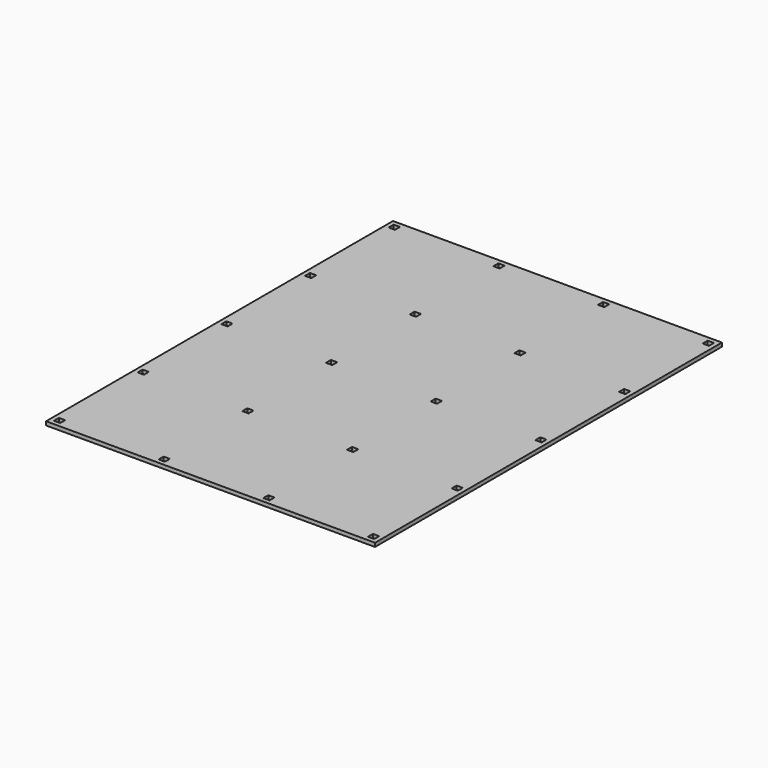
from build123d import *

# Parameters (mm, degrees)
F0_W     = 419.1
F0_H     = 552.45
F0_W_2   = 7.9375
F0_H_2   = 7.9375
F1_DEPTH = 4.7625


with BuildPart() as f1:
    # F0 (on Top) → F1 (new body)
    with BuildSketch(Plane.XY):
        with Locations((209.55, 276.225)):
            Rectangle(F0_W, F0_H)
        with Locations((9.454559, 9.666916)):
            Rectangle(F0_W_2, F0_H_2, mode=Mode.SUBTRACT)
        with Locations((142.804305, 9.666916)):
            Rectangle(F0_W_2, F0_H_2, mode=Mode.SUBTRACT)
        with Locations((9.454559, 142.945695)):
            Rectangle(F0_W_2, F0_H_2, mode=Mode.SUBTRACT)
        with Locations((9.454559, 276.224473)):
            Rectangle(F0_W_2, F0_H_2, mode=Mode.SUBTRACT)
        with Locations((142.804305, 142.945695)):
            Rectangle(F0_W_2, F0_H_2, mode=Mode.SUBTRACT)
        with Locations((142.804305, 276.224473)):
            Rectangle(F0_W_2, F0_H_2, mode=Mode.SUBTRACT)
        with Locations((276.154051, 9.666916)):
            Rectangle(F0_W_2, F0_H_2, mode=Mode.SUBTRACT)
        with Locations((409.503797, 9.666916)):
            Rectangle(F0_W_2, F0_H_2, mode=Mode.SUBTRACT)
        with Locations((276.154051, 142.945695)):
            Rectangle(F0_W_2, F0_H_2, mode=Mode.SUBTRACT)
        with Locations((276.154051, 276.224473)):
            Rectangle(F0_W_2, F0_H_2, mode=Mode.SUBTRACT)
        with Locations((409.503797, 142.945695)):
            Rectangle(F0_W_2, F0_H_2, mode=Mode.SUBTRACT)
        with Locations((409.503797, 276.224473)):
            Rectangle(F0_W_2, F0_H_2, mode=Mode.SUBTRACT)
        with Locations((9.454559, 409.503252)):
            Rectangle(F0_W_2, F0_H_2, mode=Mode.SUBTRACT)
        with Locations((142.804305, 409.503252)):
            Rectangle(F0_W_2, F0_H_2, mode=Mode.SUBTRACT)
        with Locations((9.454559, 542.78203)):
            Rectangle(F0_W_2, F0_H_2, mode=Mode.SUBTRACT)
        with Locations((142.804305, 542.78203)):
            Rectangle(F0_W_2, F0_H_2, mode=Mode.SUBTRACT)
        with Locations((276.154051, 409.503252)):
            Rectangle(F0_W_2, F0_H_2, mode=Mode.SUBTRACT)
        with Locations((409.503797, 409.503252)):
            Rectangle(F0_W_2, F0_H_2, mode=Mode.SUBTRACT)
        with Locations((276.154051, 542.78203)):
            Rectangle(F0_W_2, F0_H_2, mode=Mode.SUBTRACT)
        with Locations((409.503797, 542.78203)):
            Rectangle(F0_W_2, F0_H_2, mode=Mode.SUBTRACT)
    extrude(amount=F1_DEPTH)


solid = f1.part
